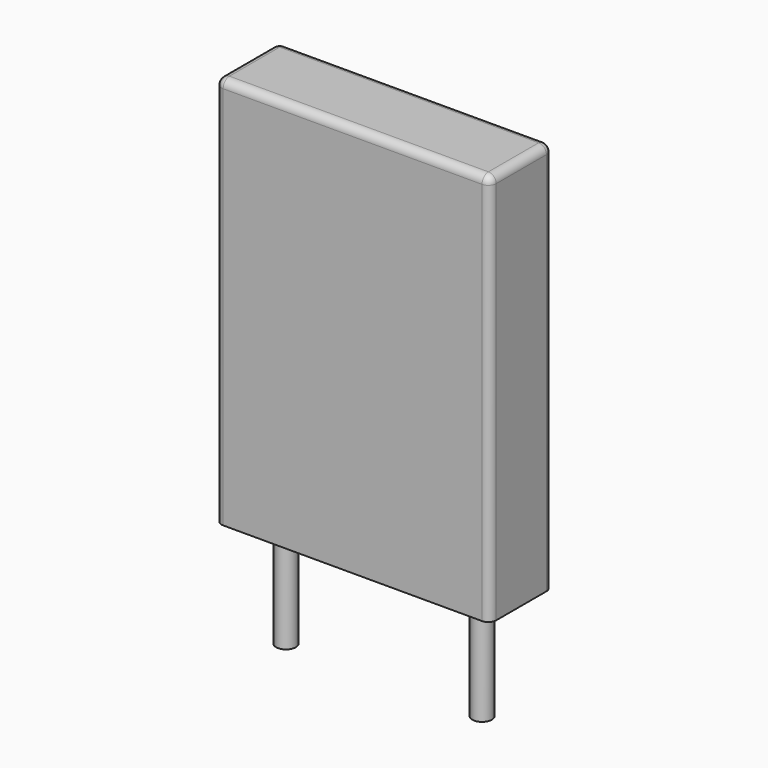
from build123d import *

# Parameters (mm, degrees)
SKETCH_W     = 7
SKETCH_H     = 2
PAD_DEPTH    = 10
FILLET_R     = 0.2
SKETCH001_R  = 0.25
PAD001_DEPTH = 3.2


with BuildPart() as fillet_body:
    # Sketch → Pad (new body)
    with BuildSketch(Plane.XY.offset(0.1)):
        with Locations((2.5, 0)):
            Rectangle(SKETCH_W, SKETCH_H)
    extrude(amount=PAD_DEPTH)

    # Fillet
    fillet_edges = [fillet_body.edges().sort_by_distance(p)[0] for p in [
        (-1, 0, 10.1),
        (-1, -1, 5.1),
        (2.5, -1, 10.1),
        (6, -1, 5.1),
        (6, 0, 10.1),
        (6, 1, 5.1),
        (2.5, 1, 10.1),
        (-1, 1, 5.1),
    ]]
    fillet(fillet_edges, radius=FILLET_R)


with BuildPart() as pad001:
    # Sketch001 → Pad001 (new body)
    with BuildSketch(Plane.XY.offset(0.5)):
        Circle(SKETCH001_R)
        with Locations((5, 0)):
            Circle(SKETCH001_R)
    extrude(amount=-PAD001_DEPTH)


solid = Compound([fillet_body.part, pad001.part])
